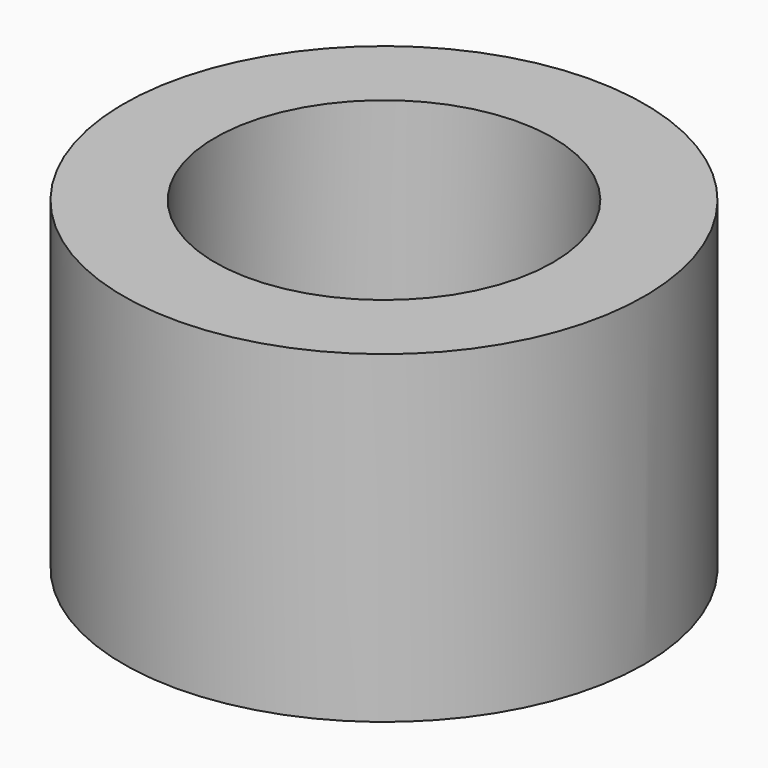
from build123d import *

# Parameters (mm, degrees)
CYLINDER031_R               = 5
CYLINDER031_DEPTH           = 3
CYLINDER028_R               = 9.25
CYLINDER028_DEPTH           = 3
CYLINDER029_R               = 6
CYLINDER029_DEPTH           = 9
CYLINDER030_R               = 9.25
CYLINDER030_DEPTH           = 9
CYLINDER030_PLACEMENT_ANGLE = 1


with BuildPart() as smallplughole:
    # Cylinder031 → Cylinder031 (new body)
    with BuildSketch(Plane.XY):
        Circle(CYLINDER031_R)
    extrude(amount=CYLINDER031_DEPTH)


with BuildPart() as smallplugbas:
    # Cylinder028 → Cylinder028 (new body)
    with BuildSketch(Plane.XY):
        Circle(CYLINDER028_R)
    extrude(amount=CYLINDER028_DEPTH)

    # Cut011: cut SmallPlugHole
    add(smallplughole.part, mode=Mode.SUBTRACT)


with BuildPart() as smallplugwallhole:
    # Cylinder029 → Cylinder029 (new body)
    with BuildSketch(Plane.XY.offset(2.5)):
        Circle(CYLINDER029_R)
    extrude(amount=CYLINDER029_DEPTH)


with BuildPart() as obj1:
    # Cylinder030 → Cylinder030 (new body)
    with BuildSketch(Plane.XY):
        Circle(CYLINDER030_R)
    extrude(amount=CYLINDER030_DEPTH)


with BuildPart() as obj1_1:
    # Cylinder030 placement: moved
    add(obj1.part.moved(Location((0, 0, 2.5))).rotate(Axis((0, 0, 2.5), (0, 0, 1)), CYLINDER030_PLACEMENT_ANGLE))

    # Cut010: cut SmallPlugWallHole
    add(smallplugwallhole.part, mode=Mode.SUBTRACT)

    # Fusion024: union SmallPlugBas
    add(smallplugbas.part)


with BuildPart() as obj1_2:
    # Fusion024 placement: moved
    add(obj1_1.part.moved(Location((128.25, -215, -4.5))))


solid = obj1_2.part
